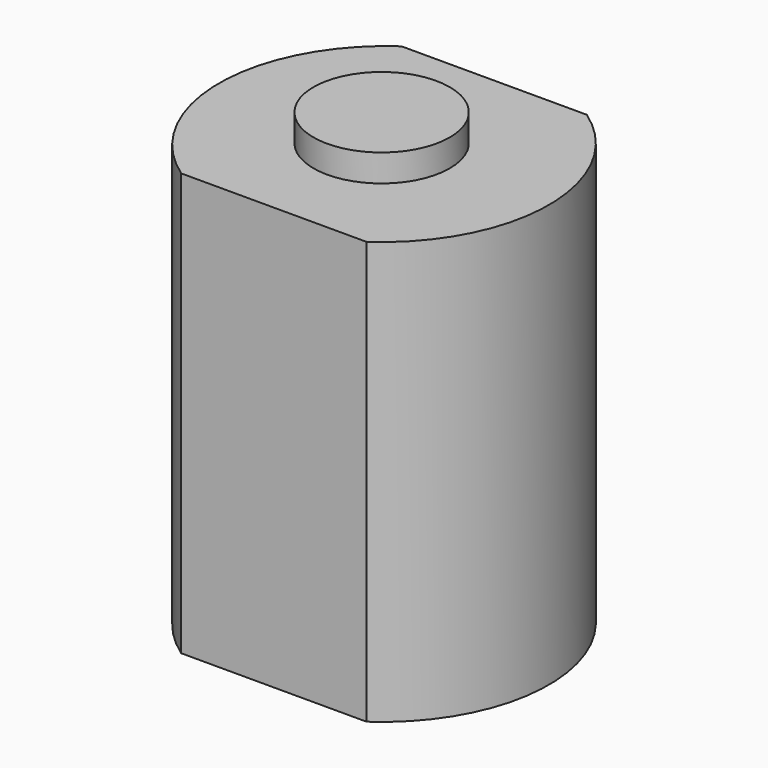
from build123d import *

# Parameters (mm, degrees)
F1_DEPTH = 15.5
F2_R     = 2.5
F3_DEPTH = 1


with BuildPart() as f1:
    # F0 (on Top) → F1 (new body)
    with BuildSketch(Plane.XY):
        with BuildLine():
            ThreePointArc((3.4, -5.05), (6.05, 0), (3.4, 5.05))
            Line((3.4, 5.05), (-3.4, 5.05))
            ThreePointArc((-3.4, 5.05), (-6.05, 0), (-3.4, -5.05))
            Line((-3.4, -5.05), (3.4, -5.05))
        make_face()
    extrude(amount=F1_DEPTH)

    # F2 (on face) → F3 (join)
    with BuildSketch(Plane.XY.offset(15.5)):
        with Locations((-0.086792, 0)):
            Circle(F2_R)
    extrude(amount=F3_DEPTH)


solid = f1.part
